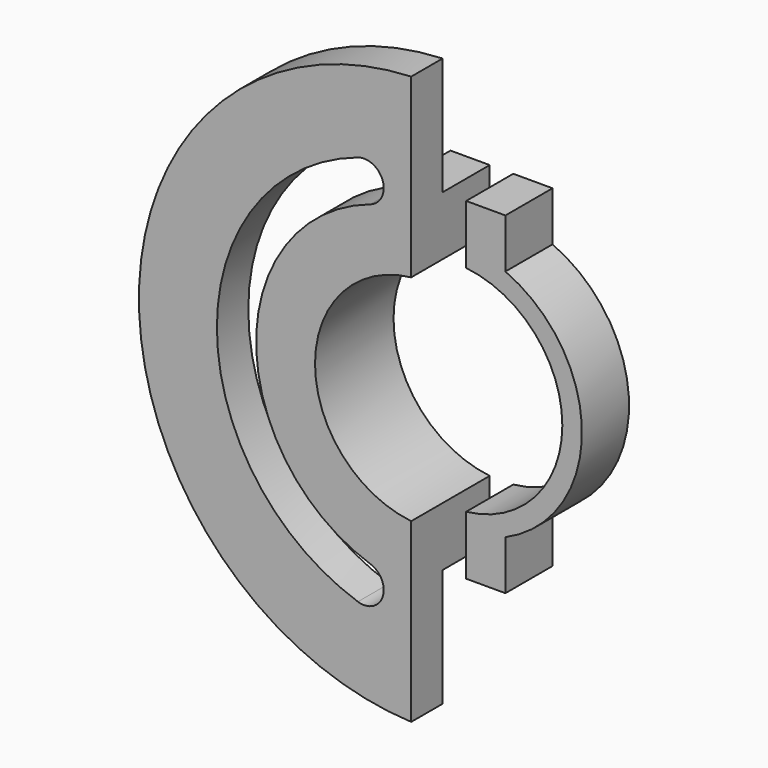
from build123d import *

# Parameters (mm, degrees)
F1_DEPTH = 15
F3_DEPTH = 10
F5_DEPTH = 10


with BuildPart() as f1:
    # F0 (on Front) → F1 (new body)
    with BuildSketch(Plane.XZ):
        with BuildLine():
            ThreePointArc((-3, -27.335874), (-27.5, 0), (-3, 27.335874))
            Line((-3, 27.335874), (-3, 32.361242))
            Line((-3, 32.361242), (-3, 42.361242))
            Line((-3, 42.361242), (-13, 42.361242))
            Line((-13, 42.361242), (-13, 29.786742))
            ThreePointArc((-13, 29.786742), (-32.5, 0), (-13, -29.786742))
            Line((-13, -29.786742), (-13, -42.361242))
            Line((-13, -42.361242), (-3, -42.361242))
            Line((-3, -42.361242), (-3, -32.361242))
            Line((-3, -32.361242), (-3, -27.335874))
        make_face()
        with BuildLine():
            Line((3, 42.361242), (3, 32.361242))
            Line((3, 32.361242), (3, 27.335874))
            ThreePointArc((3, 27.335874), (27.5, 0), (3, -27.335874))
            Line((3, -27.335874), (3, -32.361242))
            Line((3, -32.361242), (3, -42.361242))
            Line((3, -42.361242), (13, -42.361242))
            Line((13, -42.361242), (13, -29.786742))
            ThreePointArc((13, -29.786742), (32.5, 0), (13, 29.786742))
            Line((13, 29.786742), (13, 42.361242))
            Line((13, 42.361242), (3, 42.361242))
        make_face()
    extrude(amount=F1_DEPTH)

    # F2 (on face) → F3 (join)
    with BuildSketch(Plane.XZ.offset(15)):
        with BuildLine():
            ThreePointArc((-3, -27.335874), (-27.5, 0), (-3, 27.335874))
            Line((-3, 27.335874), (-3, 42.361242))
            Line((-3, 42.361242), (-3, 72.361242))
            ThreePointArc((-3, 72.361242), (-72.361, 0), (-3, -72.361242))
            Line((-3, -72.361242), (-3, -42.361242))
            Line((-3, -42.361242), (-3, -27.335874))
        make_face()
    extrude(amount=F3_DEPTH)

    # F4 (on face) → F5 (cut)
    with BuildSketch(Plane.XZ.offset(25)):
        with BuildLine():
            ThreePointArc((-13.421053, 40.325245), (-10.255854, 46.648338), (-16.578947, 49.813537))
            ThreePointArc((-16.578947, 49.813537), (-52.5, 0), (-16.578947, -49.813537))
            ThreePointArc((-16.578947, -49.813537), (-10.255854, -46.648338), (-13.421053, -40.325245))
            ThreePointArc((-13.421053, -40.325245), (-42.5, 0), (-13.421053, 40.325245))
        make_face()
    extrude(amount=-F5_DEPTH, mode=Mode.SUBTRACT)


solid = f1.part
